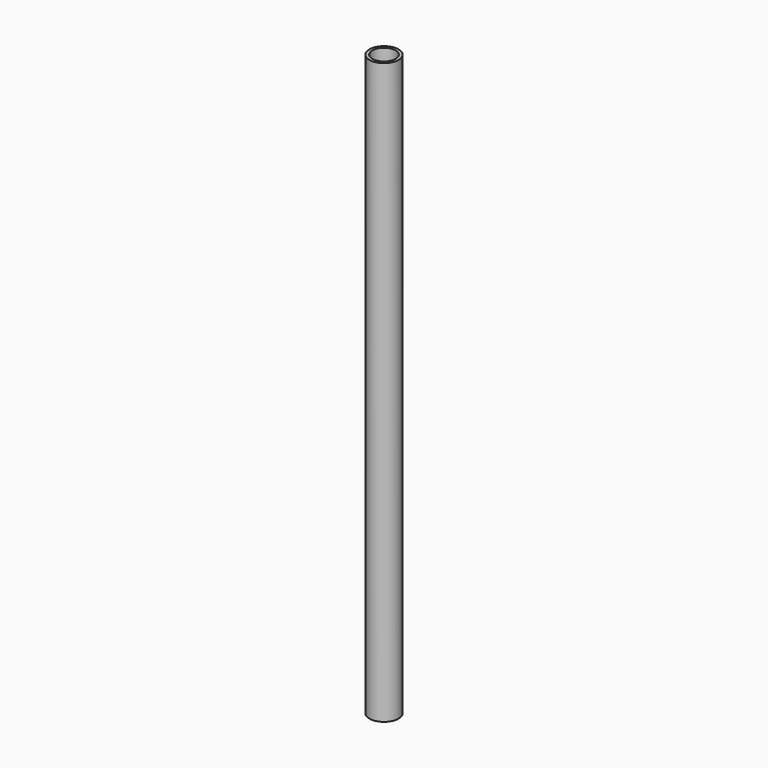
from build123d import *

# Parameters (mm, degrees)
F0_R     = 2.5
F1_DEPTH = 100
F2_R     = 2
F3_DEPTH = 100.001


with BuildPart() as f1:
    # F0 (on Top) → F1 (new body)
    with BuildSketch(Plane.XY):
        Circle(F0_R)
    extrude(amount=F1_DEPTH)

    # F2 (on Top) → F3 (cut, through all)
    with BuildSketch(Plane.XY):
        Circle(F2_R)
    extrude(amount=F3_DEPTH, mode=Mode.SUBTRACT)


solid = f1.part
